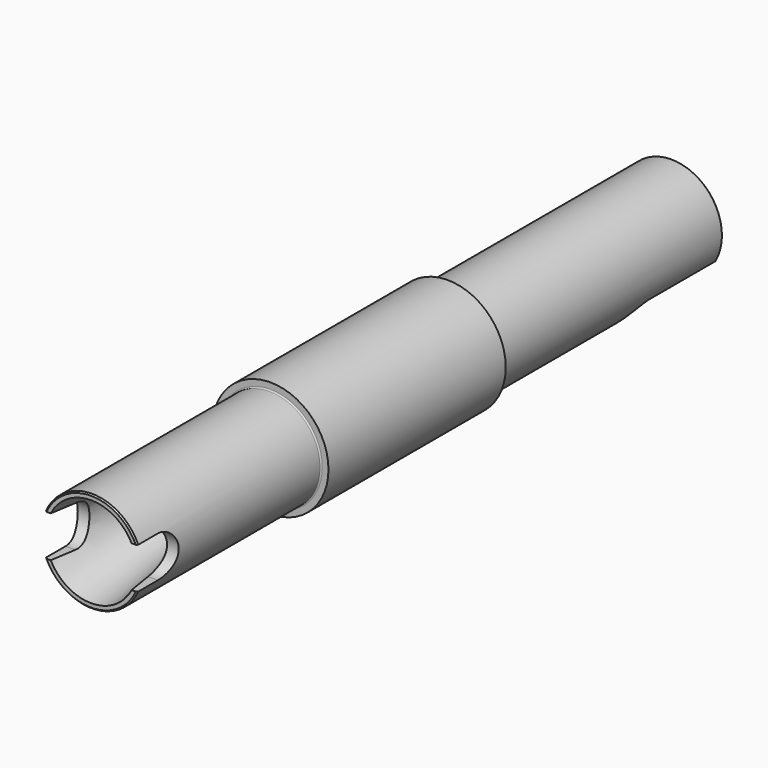
from build123d import *

# Parameters (mm, degrees)
F0_R      = 11.25
F0_R_2    = 9.8
F1_DEPTH  = 21.5
F0_R_3    = 5.3
F2_DEPTH  = 65
F3_SIZE2  = 3.5
F3_SIZE   = 25
F4_SIZE2  = 25
F4_SIZE   = 3.5
F6_DEPTH  = 11
F7_DEPTH  = 25
F8_R      = 0.3
F9_SIZE   = 0.25
F10_R     = 0.25
F12_DEPTH = 25


with BuildPart() as f1:
    # F0 (on Front) → F1 (new body, symmetric)
    with BuildSketch(Plane.XZ):
        Circle(F0_R)
        Circle(F0_R_2, mode=Mode.SUBTRACT)
    extrude(amount=F1_DEPTH, both=True)

    # F0 (on Front) → F2 (join, symmetric)
    with BuildSketch(Plane.XZ):
        Circle(F0_R_2)
        Circle(F0_R_3, mode=Mode.SUBTRACT)
    extrude(amount=F2_DEPTH, both=True)

    # F3
    f3_edges = [f1.edges().sort_by_distance(p)[0] for p in [
        (-5.3, -65, 0),
    ]]
    f3_side = f1.faces().sort_by_distance((-5.3, 0, 0))[0]
    chamfer(f3_edges, length=F3_SIZE, length2=F3_SIZE2, reference=f3_side)

    # F4
    f4_edges = [f1.edges().sort_by_distance(p)[0] for p in [
        (-5.3, 65, 0),
    ]]
    f4_side = f1.faces().sort_by_distance((-9.522814, 65, 0))[0]
    chamfer(f4_edges, length=F4_SIZE, length2=F4_SIZE2, reference=f4_side)

    # F6 (add): a face of the model
    f6_faces = [f1.faces().sort_by_distance(p)[0] for p in [
        (-9.0771858582, 65, 0),
    ]]
    extrude(f6_faces, amount=F6_DEPTH)

    # F5 (on Top) → F7 (cut)
    with BuildSketch(Plane.XY):
        with BuildLine():
            ThreePointArc((0, 68), (5.6568542495, 65.6568542495), (8, 60))
            Line((8, 60), (8, 96.1189419031))
            Line((8, 96.1189419031), (0, 96.1189419031))
            Line((0, 96.1189419031), (0, 68))
        make_face()
        with BuildLine():
            ThreePointArc((-8, 60), (-5.6568542495, 65.6568542495), (0, 68))
            Line((0, 68), (0, 96.1189419031))
            Line((0, 96.1189419031), (-8, 96.1189419031))
            Line((-8, 96.1189419031), (-8, 60))
        make_face()
        with BuildLine():
            Line((0, 60), (8, 60))
            ThreePointArc((8, 60), (5.6568542495, 65.6568542495), (0, 68))
            Line((0, 68), (0, 60))
        make_face()
        with BuildLine():
            Line((0, 60), (0, 68))
            ThreePointArc((0, 68), (-5.6568542495, 65.6568542495), (-8, 60))
            Line((-8, 60), (0, 60))
        make_face()
        with BuildLine():
            ThreePointArc((0, 52), (5.6568542495, 54.3431457505), (8, 60))
            Line((8, 60), (0, 60))
            Line((0, 60), (0, 52))
        make_face()
        with BuildLine():
            ThreePointArc((-8, 60), (-5.6568542495, 54.3431457505), (0, 52))
            Line((0, 52), (0, 60))
            Line((0, 60), (-8, 60))
        make_face()
    extrude(amount=-F7_DEPTH, mode=Mode.SUBTRACT)

    # F8
    f8_edges = [f1.edges().sort_by_distance(p)[0] for p in [
        (0, 52, -9.8),
    ]]
    fillet(f8_edges, radius=F8_R)

    # F9
    f9_edges = [f1.edges().sort_by_distance(p)[0] for p in [
        (9.485479, 76, -2.462861),
        (-2.462861, 76, 9.485479),
        (-9.8, -65, 0),
    ]]
    chamfer(f9_edges, length=F9_SIZE)

    # F10
    f10_edges = [f1.edges().sort_by_distance(p)[0] for p in [
        (-9.8, -21.5, 0),
        (-9.8, 21.5, 0),
    ]]
    fillet(f10_edges, radius=F10_R)

    # F11 (on Right) → F12 (cut, symmetric)
    with BuildSketch(Plane.YZ):
        with BuildLine():
            Line((-74, -4), (-60, -4))
            ThreePointArc((-60, -4), (-64, 0), (-60, 4))
            Line((-60, 4), (-74, 4))
            Line((-74, 4), (-74, -4))
        make_face()
        with BuildLine():
            ThreePointArc((-60, 4), (-64, 0), (-60, -4))
            ThreePointArc((-60, -4), (-57.1715728753, -2.8284271247), (-56, 0))
            ThreePointArc((-56, 0), (-57.1715728753, 2.8284271247), (-60, 4))
        make_face()
    extrude(amount=F12_DEPTH, both=True, mode=Mode.SUBTRACT)


solid = f1.part
